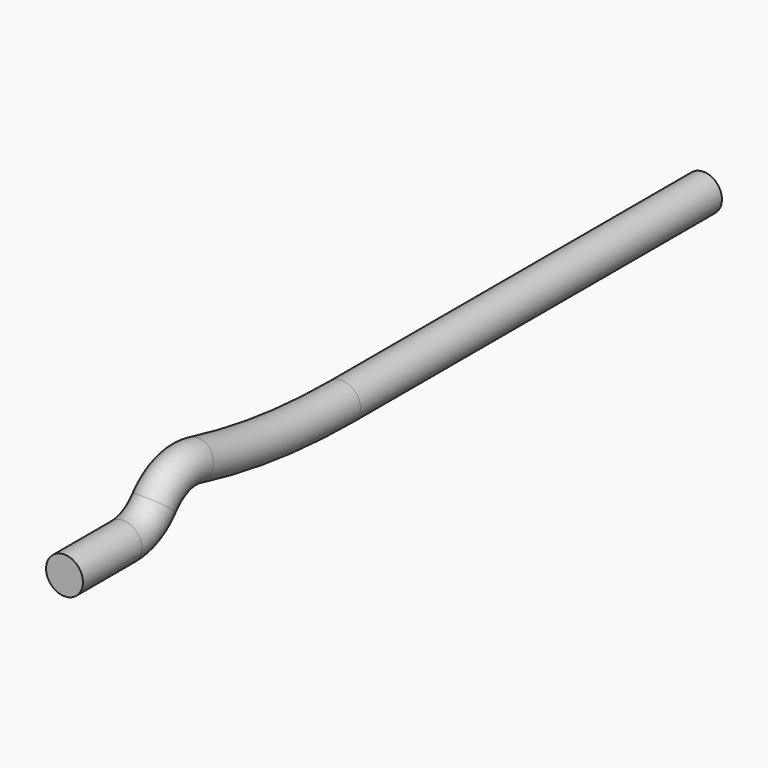
from build123d import *

# Parameters (mm, degrees)
F1_R = 15


with BuildPart() as f3:
    # F3: sweep along a path in F0
    with BuildLine(Plane.YZ) as f3_path:
        Line((0, 0), (60, 0))
        ThreePointArc((60, 0), (77.320508, 3.944487), (91.22499, 15))
        ThreePointArc((91.22499, 15), (109.739598, 27.926853), (132.304801, 28.767029))
        ThreePointArc((132.304801, 28.767029), (206.720078, 14.709975), (282.304801, 10))
        Line((282.304801, 10), (650, 10))
    # F1 (on Front) → F3 (sweep)
    with BuildSketch(Plane.XZ):
        Circle(F1_R)
    sweep(path=f3_path.line)


solid = f3.part
